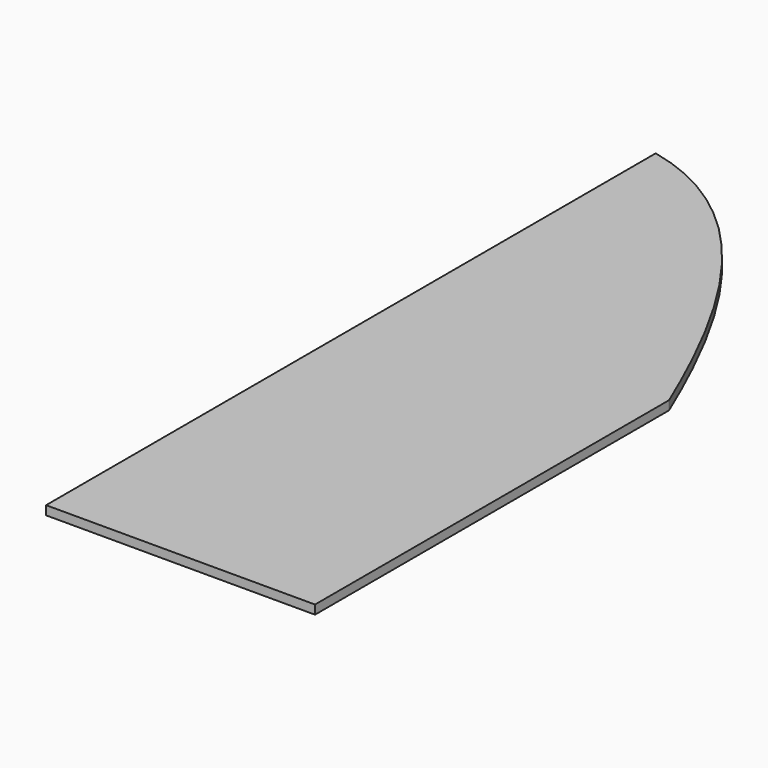
from build123d import *

# Parameters (mm, degrees)
F1_DEPTH = 2.54


with BuildPart() as f1:
    # F0 (on Top) → F1 (new body)
    with BuildSketch(Plane.XY):
        with BuildLine():
            Line((0, 215.9), (0, 0))
            Line((0, 0), (76.2, 0))
            Line((76.2, 0), (76.2, 125.401467))
            add(Edge.make_bspline(
                [(0, 215.9), (37.125573, 207.826727), (60.604483, 162.398547), (76.2, 125.401467)],
                knots=[0, 0, 0, 0, 118.306485, 118.306485, 118.306485, 118.306485], degree=3))
        make_face()
    extrude(amount=F1_DEPTH)


solid = f1.part
